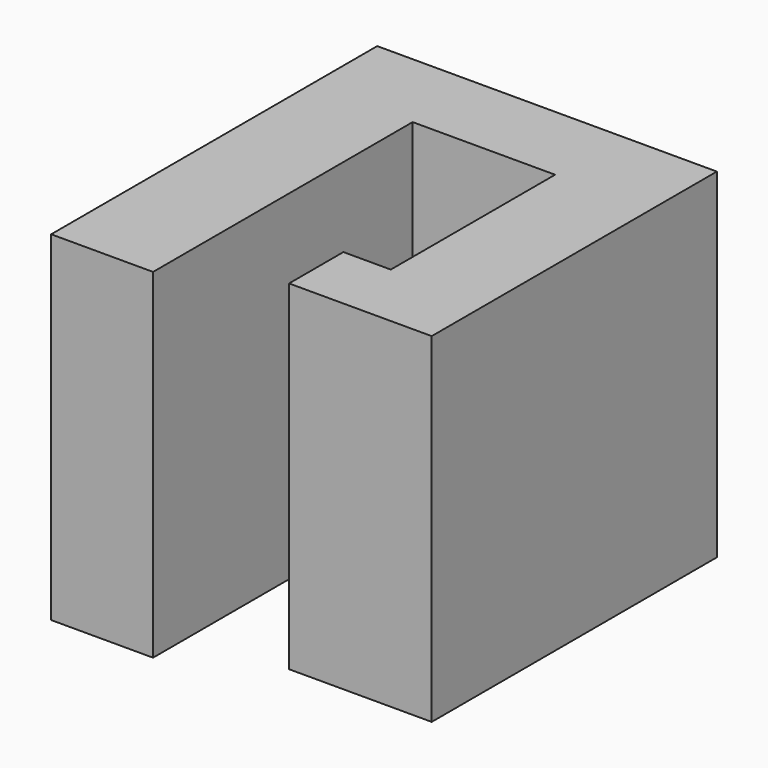
from build123d import *

# Parameters (mm, degrees)
F0_W     = 38.1
F0_H     = 121.3300344632
F0_W_2   = 35.6199596207
F0_H_2   = 76.8069449736
F1_DEPTH = 127


with BuildPart() as f1:
    # F0 (on Top) → F1 (new body)
    with BuildSketch(Plane.XY):
        with Locations((-102.681998235, 1.9082963139)):
            Rectangle(F0_W, F0_H)
        Polygon((-83.631998235, 62.5733135455), (-30.3519578557, 62.5733135455), (5.268001765, 62.5733135455), (5.268001765, 93.6432790823), (-121.731998235, 93.6432790823), (-121.731998235, 62.5733135455), align=None)
        with Locations((-12.5419780454, 24.1698410587)):
            Rectangle(F0_W_2, F0_H_2)
        Polygon((5.268001765, -14.2336314282), (-30.3519578557, -14.2336314282), (-48.071998235, -14.2336314282), (-48.071998235, -39.6336314282), (5.268001765, -39.6336314282), align=None)
    extrude(amount=F1_DEPTH)


solid = f1.part
